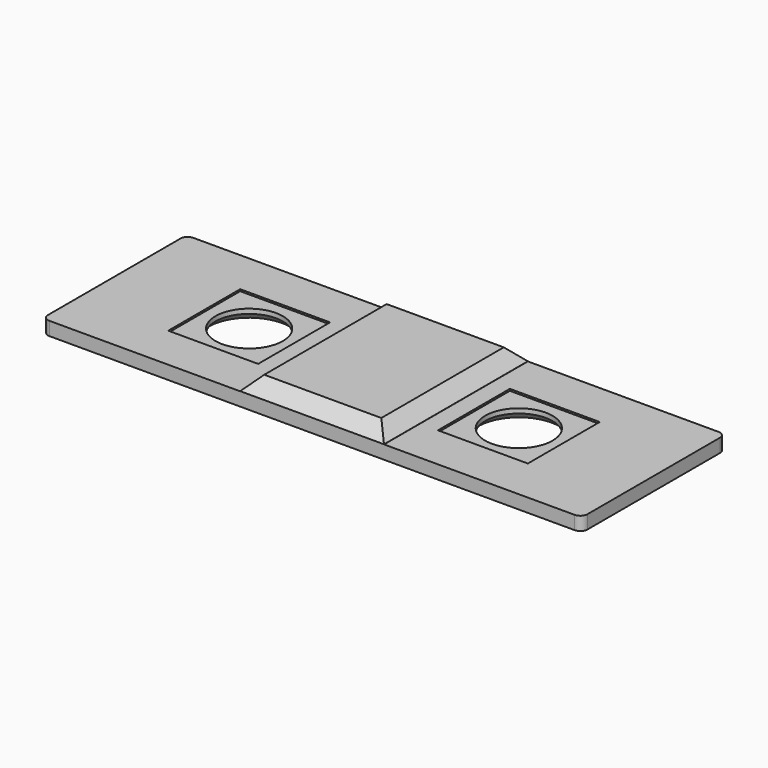
from build123d import *

# Parameters (mm, degrees)
SKETCH_W        = 76.2
SKETCH_H        = 25.4
SKETCH_R        = 4.7625
PAD_DEPTH       = 1.905
SKETCH001_W     = 12.7
SKETCH001_H     = 12.7
POCKET_DEPTH    = 0.254
CHAMFER_SIZE    = 1
FILLET_R        = 1
SKETCH002_W     = 20.32
SKETCH002_H     = 25.4
PAD001_DEPTH    = 1.905
CHAMFER001_SIZE = 1.889001


with BuildPart() as part:
    # Sketch → Pad (new body)
    with BuildSketch(Plane.XY):
        Rectangle(SKETCH_W, SKETCH_H)
        with Locations((-19.05, 0)):
            Circle(SKETCH_R, mode=Mode.SUBTRACT)
        with Locations((19.05, 0)):
            Circle(SKETCH_R, mode=Mode.SUBTRACT)
    extrude(amount=PAD_DEPTH)

    # Sketch001 → Pocket (cut)
    with BuildSketch(Plane.XY.offset(1.905)):
        with Locations((-19.05, 0)):
            Rectangle(SKETCH001_W, SKETCH001_H)
        with Locations((19.05, 0)):
            Rectangle(SKETCH001_W, SKETCH001_H)
    extrude(amount=-POCKET_DEPTH, mode=Mode.SUBTRACT)

    # Chamfer
    chamfer_edges = [part.edges().sort_by_distance(p)[0] for p in [
        (14.2875, 0, 0),
        (-23.8125, 0, 0),
    ]]
    chamfer(chamfer_edges, length=CHAMFER_SIZE)

    # Fillet
    fillet_edges = [part.edges().sort_by_distance(p)[0] for p in [
        (38.1, 12.7, 0.9525),
        (38.1, -12.7, 0.9525),
        (-38.1, -12.7, 0.9525),
        (-38.1, 12.7, 0.9525),
    ]]
    fillet(fillet_edges, radius=FILLET_R)

    # Sketch002 (on Face5 of Pocket) → Pad001 (join)
    with BuildSketch(Plane.XY.offset(1.905)):
        Rectangle(SKETCH002_W, SKETCH002_H)
    extrude(amount=PAD001_DEPTH)

    # Chamfer001
    chamfer001_edges = [part.edges().sort_by_distance(p)[0] for p in [
        (0, -12.7, 3.81),
        (-10.16, 0, 3.81),
        (10.16, 0, 3.81),
        (0, 12.7, 3.81),
    ]]
    chamfer(chamfer001_edges, length=CHAMFER001_SIZE)


solid = part.part
